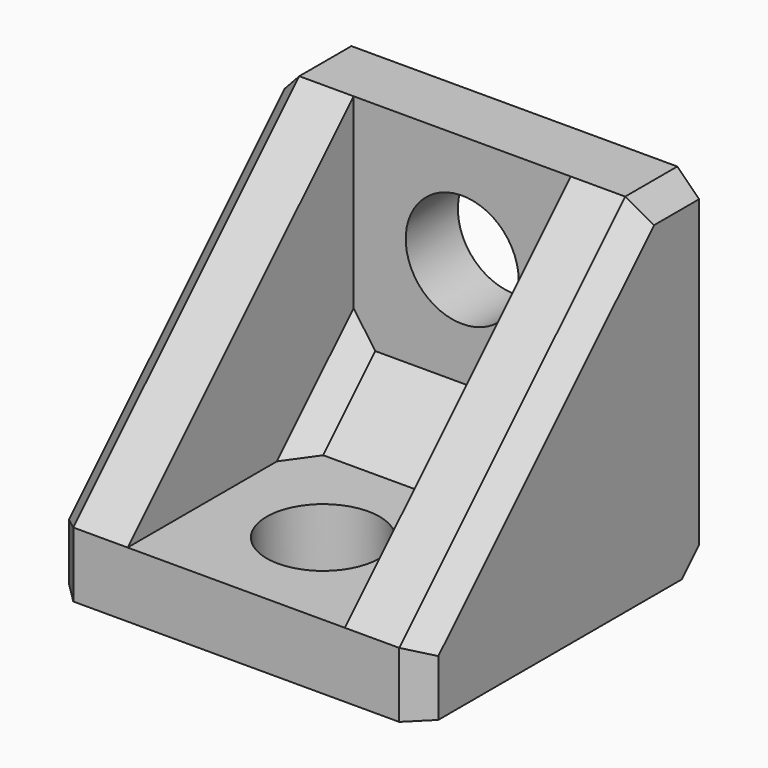
from build123d import *

# Parameters (mm, degrees)
F1_DEPTH  = 8.5
F2_DEPTH  = 5
F3_R      = 2.6
F4_DEPTH  = 25
F5_R      = 2.6
F6_DEPTH  = 25
F7_SIZE   = 1
F8_W      = 6
F8_H      = 3
F9_DEPTH  = 1
F10_W     = 6
F10_H     = 3
F11_DEPTH = 1
F12_R     = 0.5


with BuildPart() as f1:
    # F0 (on Right) → F1 (new body, symmetric)
    with BuildSketch(Plane.YZ):
        Polygon((-0.3340116796, 1.9893845548), (-0.3340116796, -1.0106154452), (15.6659883204, -1.0106154452), (15.6659883204, 14.9893845548), (12.6659883204, 14.9893845548), (12.6659883204, 4.9893845548), (9.6659883204, 1.9893845548), align=None)
        Polygon((12.6659883204, 14.9893845548), (-0.3340116796, 1.9893845548), (9.6659883204, 1.9893845548), (12.6659883204, 4.9893845548), align=None)
    extrude(amount=F1_DEPTH, both=True)

    # F0 (on Right) → F2 (cut, symmetric)
    with BuildSketch(Plane.YZ):
        Polygon((12.6659883204, 14.9893845548), (-0.3340116796, 1.9893845548), (9.6659883204, 1.9893845548), (12.6659883204, 4.9893845548), align=None)
    extrude(amount=F2_DEPTH, both=True, mode=Mode.SUBTRACT)

    # F3 (on face) → F4 (cut)
    with BuildSketch(Plane.XZ.offset(-12.6659883204)):
        with Locations((0, 9.9893845548)):
            Circle(F3_R)
    extrude(amount=-F4_DEPTH, mode=Mode.SUBTRACT)

    # F5 (on face) → F6 (cut)
    with BuildSketch(Plane.XY.offset(1.9893845548)):
        with Locations((0, 4.6659883204)):
            Circle(F5_R)
    extrude(amount=-F6_DEPTH, mode=Mode.SUBTRACT)

    # F7
    f7_edges = [f1.edges().sort_by_distance(p)[0] for p in [
        (-8.5, 14.165988, 14.989385),
        (-8.5, 6.165988, 8.489385),
        (-8.5, -0.334012, 0.489385),
        (8.5, -0.334012, 0.489385),
        (8.5, 6.165988, 8.489385),
        (8.5, 14.165988, 14.989385),
        (-5, 11.165988, 3.489385),
        (5, 11.165988, 3.489385),
        (0, 15.665988, -1.010615),
    ]]
    chamfer(f7_edges, length=F7_SIZE)

    # F8 (on face) → F9 (join)
    with BuildSketch(Plane(origin=(0, 15.6659883204, 0), x_dir=(-1, 0, 0), z_dir=(0, 1, 0))):
        with Locations((0, 1.4893845548)):
            Rectangle(F8_W, F8_H)
    extrude(amount=F9_DEPTH)

    # F10 (on face) → F11 (join)
    with BuildSketch(Plane(origin=(0, 0, -1.0106154452), x_dir=(1, 0, 0), z_dir=(0, 0, -1))):
        with Locations((0, -13.1659883204)):
            Rectangle(F10_W, F10_H)
    extrude(amount=F11_DEPTH)

    # F12
    f12_edges = [f1.edges().sort_by_distance(p)[0] for p in [
        (3, 16.165988, 2.989385),
        (3, 16.165988, -0.010615),
        (-3, 16.165988, 2.989385),
        (-3, 16.165988, -0.010615),
        (-3, 11.665988, -1.510615),
        (-3, 14.665988, -1.510615),
        (3, 11.665988, -1.510615),
        (3, 14.665988, -1.510615),
    ]]
    fillet(f12_edges, radius=F12_R)


solid = f1.part
